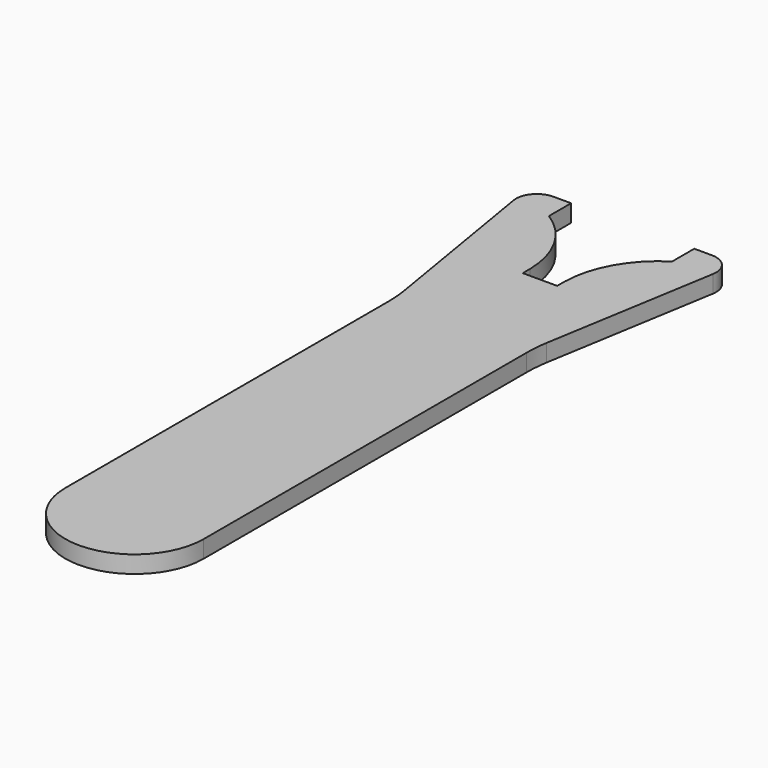
from build123d import *

# Parameters (mm, degrees)
F2_DEPTH = 2.5
F3_R     = 3
F4_R     = 20


with BuildPart() as f2:
    # F1 (on Top) → F2 (new body)
    with BuildSketch(Plane.XY):
        with BuildLine():
            Line((2.488848, -10.5), (-2.488848, -10.5))
            Line((-2.488848, -10.5), (-2.488848, -9.168186))
            ThreePointArc((-2.488848, -9.168186), (-4.247392, -2.645334), (-8.899342, 2.253587))
            Line((-8.899342, 2.253587), (-8.899342, 6.253587))
            Line((-8.899342, 6.253587), (-15, 6.253587))
            Line((-15, 6.253587), (-10, -23.746413))
            Line((-10, -23.746413), (-10, -83.746413))
            ThreePointArc((-10, -83.746413), (0, -93.746413), (10, -83.746413))
            Line((10, -83.746413), (10, -23.746413))
            Line((10, -23.746413), (15, 6.253587))
            Line((15, 6.253587), (8.899342, 6.253587))
            Line((8.899342, 6.253587), (8.899342, 2.253587))
            ThreePointArc((8.899342, 2.253587), (4.247392, -2.645334), (2.488848, -9.168186))
            Line((2.488848, -9.168186), (2.488848, -10.5))
        make_face()
    extrude(amount=F2_DEPTH)

    # F3
    f3_edges = [f2.edges().sort_by_distance(p)[0] for p in [
        (-15, 6.253587, 1.25),
        (15, 6.253587, 1.25),
    ]]
    fillet(f3_edges, radius=F3_R)

    # F4
    f4_edges = [f2.edges().sort_by_distance(p)[0] for p in [
        (-10, -23.746413, 1.25),
        (10, -23.746413, 1.25),
    ]]
    fillet(f4_edges, radius=F4_R)


solid = f2.part
